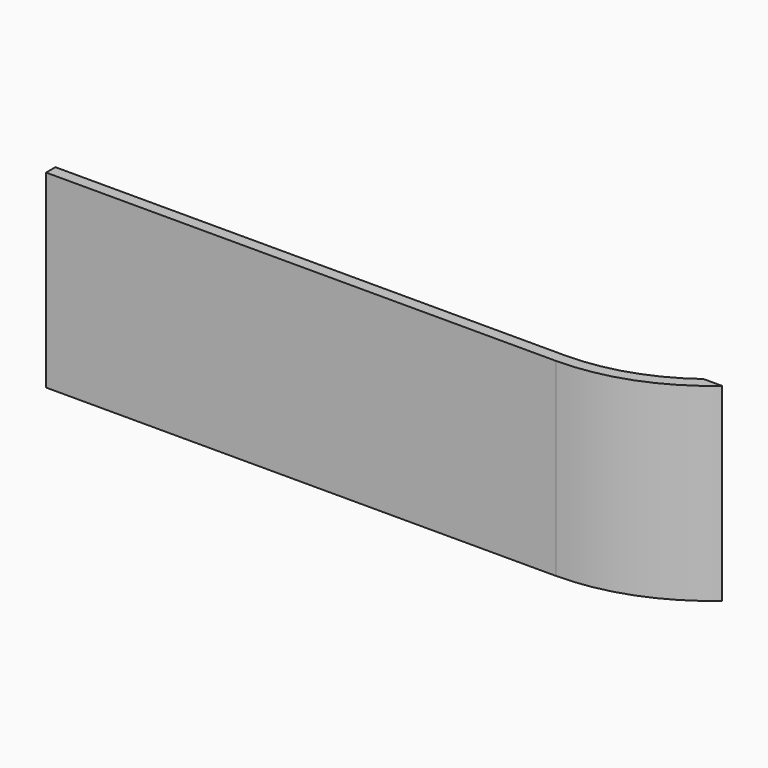
from build123d import *

# Parameters (mm, degrees)
F0_W          = 70
F0_H          = 1.6
F1_DEPTH      = 13
F1_DEPTH_BACK = 13
F2_W          = 5
F2_H          = 5
F3_ANGLE      = 180


with BuildPart() as f1:
    # F0 (on Top) → F1 (new body, two sides)
    with BuildSketch(Plane.XY) as f1_sk:
        with Locations((-35, 0.8)):
            Rectangle(F0_W, F0_H)
        with BuildLine():
            Line((0, 1.6), (0, 0))
            ThreePointArc((0, 0), (9.369098, 1.704619), (17.537389, 6.6))
            Line((17.537389, 6.6), (15, 6.6))
            ThreePointArc((15, 6.6), (7.905694, 2.882918), (0, 1.6))
        make_face()
    extrude(amount=F1_DEPTH)
    extrude(f1_sk.sketch, amount=-F1_DEPTH_BACK)

    # F2 (on face) → F3 (revolve)
    with BuildSketch(Plane(origin=(0, 1.6, 0), x_dir=(-1, 0, 0), z_dir=(0, 1, 0))):
        with Locations((18.5, 0)):
            Rectangle(F2_W, F2_H)
    revolve(axis=Axis((-16, 1.6, 0), (0, 0, -1)), revolution_arc=F3_ANGLE)


solid = f1.part
